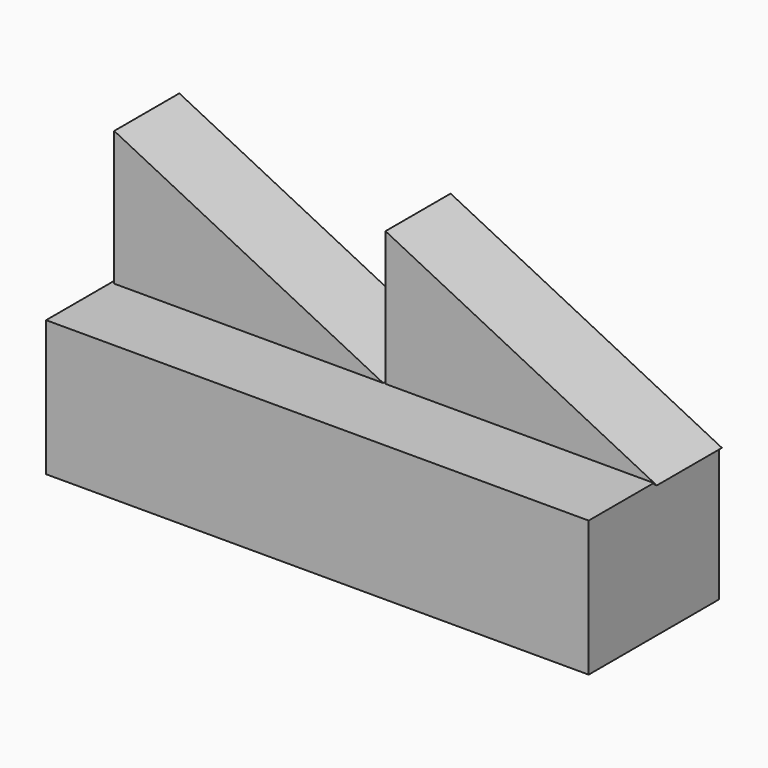
from build123d import *

# Parameters (mm, degrees)
F0_W     = 127
F0_H     = 31.75
F1_DEPTH = 38.1
F3_DEPTH = 19.05


with BuildPart() as f1:
    # F0 (on Front) → F1 (new body)
    with BuildSketch(Plane.XZ):
        with Locations((10.347378, -24.202869)):
            Rectangle(F0_W, F0_H)
    extrude(amount=F1_DEPTH)

    # F2 (on Front) → F3 (join)
    with BuildSketch(Plane.XZ):
        Polygon((-52.444755, 23.151476), (-52.444755, -8.598524), (11.055245, -8.598524), align=None)
        Polygon((11.055245, 23.151476), (11.055245, -8.598524), (74.555245, -8.598524), align=None)
    extrude(amount=F3_DEPTH)


solid = f1.part
